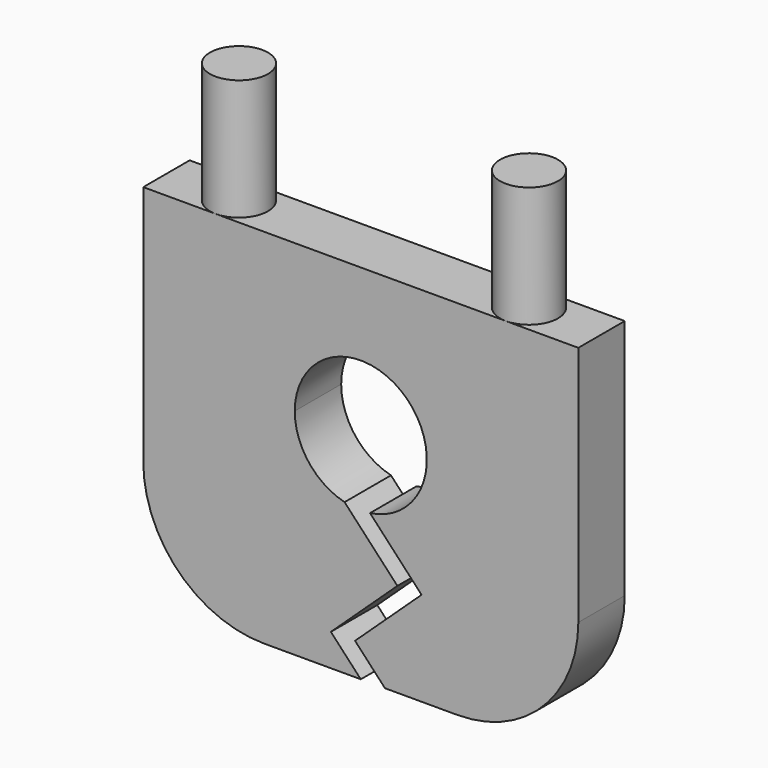
from build123d import *

# Parameters (mm, degrees)
F0_R     = 2.4
F1_DEPTH = 10
F2_W     = 36
F2_H     = 30
F3_DEPTH = 2.4
F4_R     = 10
F6_DEPTH = 25


with BuildPart() as f1:
    # F0 (on Top) → F1 (new body)
    with BuildSketch(Plane.XY):
        with Locations((-12, 0)):
            Circle(F0_R)
        with Locations((12, 0)):
            Circle(F0_R)
    extrude(amount=F1_DEPTH)


with BuildPart() as f3:
    # F2 (on Front) → F3 (new body, symmetric)
    with BuildSketch(Plane.XZ):
        with Locations((0, -15)):
            Rectangle(F2_W, F2_H)
    extrude(amount=F3_DEPTH, both=True)

    # F4
    f4_edges = [f3.edges().sort_by_distance(p)[0] for p in [
        (18, 0, -30),
        (-18, 0, -30),
    ]]
    fillet(f4_edges, radius=F4_R)

    # F5 (on face) → F6 (cut)
    with BuildSketch(Plane(origin=(0, 2.4, 0), x_dir=(-1, 0, 0), z_dir=(0, 1, 0))):
        with BuildLine():
            ThreePointArc((1.342098, -17.530336), (4.311805, -15.589608), (5.463577, -12.234163))
            ThreePointArc((5.463577, -12.234163), (-3.583035, -8.109539), (-0.764039, -17.644054))
            ThreePointArc((-0.764039, -17.644054), (0.294569, -17.689794), (1.342098, -17.530336))
        make_face()
        with BuildLine():
            ThreePointArc((1.342098, -17.530336), (0.294569, -17.689794), (-0.764039, -17.644054))
            Line((-0.764039, -17.644054), (-5.027231, -22.21176))
            Line((-5.027231, -22.21176), (0.475518, -27.347659))
            Line((0.475518, -27.347659), (-2, -30))
            Line((-2, -30), (0, -30))
            Line((0, -30), (2.475518, -27.347659))
            Line((2.475518, -27.347659), (-3.027231, -22.21176))
            Line((-3.027231, -22.21176), (1.342098, -17.530336))
        make_face()
    extrude(amount=-F6_DEPTH, mode=Mode.SUBTRACT)


solid = Compound([f1.part, f3.part])
